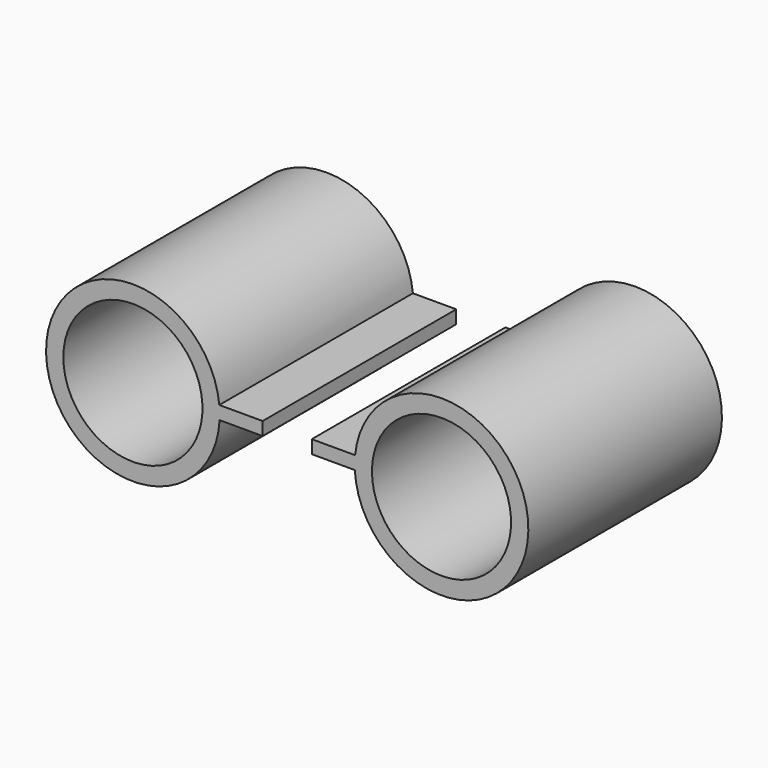
from build123d import *

# Parameters (mm, degrees)
F1_DEPTH = 101.6
F2_D     = 58.42
F3_D     = 58.42


with BuildPart() as f1:
    # F0 (on Front) → F1 (new body)
    with BuildSketch(Plane.XZ):
        with BuildLine():
            ThreePointArc((-32.9588601721, -1.8753951881), (4.4282430341, -36.3557427341), (39.9035067211, 0.0886741137))
            ThreePointArc((39.9035067211, 0.0886741137), (5.2429792671, 36.5020088217), (-32.8346297567, 3.6785599019))
            Line((-32.8346297567, 3.6785599019), (-32.8346297567, -1.8753951881))
            Line((-32.8346297567, -1.8753951881), (-32.9588601721, -1.8753951881))
        make_face()
        with BuildLine():
            Line((-32.8346297567, -1.8753951881), (-32.8346297567, 3.6785599019))
            ThreePointArc((-32.8346297567, 3.6785599019), (-33.0026864957, 0.9039520485), (-32.9588601721, -1.8753951881))
            Line((-32.9588601721, -1.8753951881), (-32.8346297567, -1.8753951881))
        make_face()
        with BuildLine():
            ThreePointArc((-32.9588601721, -1.8753951881), (-33.0026864957, 0.9039520485), (-32.8346297567, 3.6785599019))
            Line((-32.8346297567, 3.6785599019), (-51.0312430561, 3.6785599019))
            Line((-51.0312430561, 3.6785599019), (-51.0312430561, -1.8753951881))
            Line((-51.0312430561, -1.8753951881), (-32.9588601721, -1.8753951881))
        make_face()
    extrude(amount=F1_DEPTH)

    # F2 (through all)
    with Locations(Plane(origin=(0, 0, 0), x_dir=(1, 0, 0), z_dir=(0, 1, 0))):
        with Locations((3.4458516652, -0.0886741137)):
            Hole(F2_D / 2)


with BuildPart() as f1b:
    # F0 (on Front) → F1, piece 2 (new body)
    with BuildSketch(Plane.XZ):
        with BuildLine():
            Line((-71.6525129974, 3.6785599019), (-89.8491262968, 3.6785599019))
            ThreePointArc((-89.8491262968, 3.6785599019), (-89.7162730106, 1.8858017155), (-89.6719526627, 0.0886741137))
            ThreePointArc((-89.6719526627, 0.0886741137), (-89.6851908709, -0.8937172552), (-89.7248958814, -1.8753951881))
            Line((-89.7248958814, -1.8753951881), (-71.6525129974, -1.8753951881))
            Line((-71.6525129974, -1.8753951881), (-71.6525129974, 3.6785599019))
        make_face()
        with BuildLine():
            ThreePointArc((-89.6719526627, 0.0886741137), (-89.7162730106, 1.8858017155), (-89.8491262968, 3.6785599019))
            ThreePointArc((-89.8491262968, 3.6785599019), (-162.5781458795, -0.7266038211), (-89.7248958814, -1.8753951881))
            ThreePointArc((-89.7248958814, -1.8753951881), (-89.6851908709, -0.8937172552), (-89.6719526627, 0.0886741137))
        make_face()
    extrude(amount=F1_DEPTH)

    # F3 (through all)
    with Locations(Plane(origin=(0, 0, 0), x_dir=(1, 0, 0), z_dir=(0, 1, 0))):
        with Locations((-126.1296077187, -0.0886741137)):
            Hole(F3_D / 2)


solid = Compound([f1.part, f1b.part])
